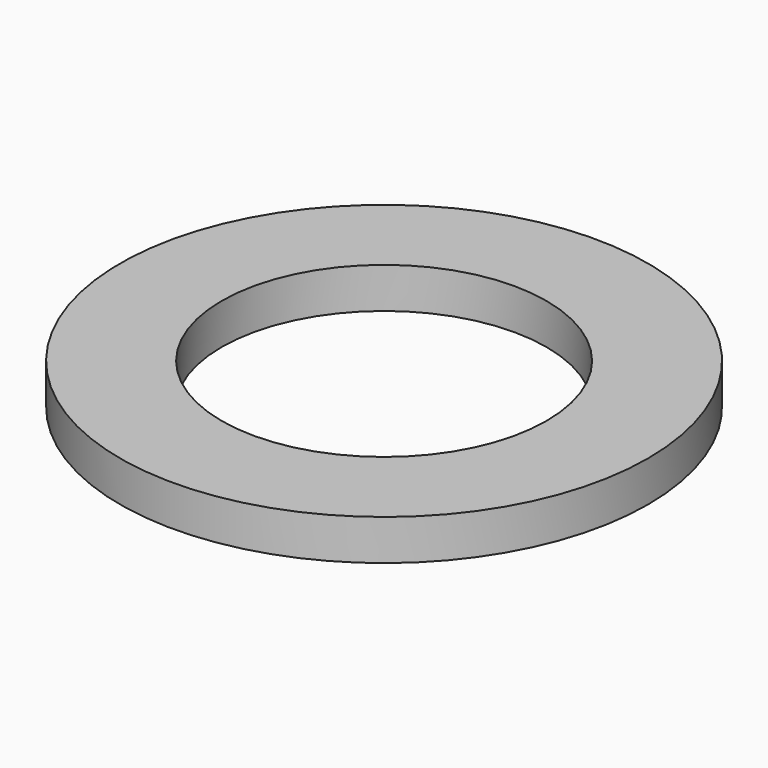
from build123d import *

# Parameters (mm, degrees)
CYLINDER007_R     = 0.4
CYLINDER007_DEPTH = 0.1
CYLINDER006_R     = 0.65
CYLINDER006_DEPTH = 0.1


with BuildPart() as cylinder007:
    # Cylinder007 → Cylinder007 (new body)
    with BuildSketch(Plane.XY.offset(1.62)):
        Circle(CYLINDER007_R)
    extrude(amount=CYLINDER007_DEPTH)


with BuildPart() as cut015:
    # Cylinder006 → Cylinder006 (new body)
    with BuildSketch(Plane.XY.offset(1.62)):
        Circle(CYLINDER006_R)
    extrude(amount=CYLINDER006_DEPTH)

    # Cut015: cut Cylinder007
    add(cylinder007.part, mode=Mode.SUBTRACT)


with BuildPart() as cut015_1:
    # Cut015 placement: moved
    add(cut015.part.moved(Location((26.5, 12.7, 0))))


solid = cut015_1.part
